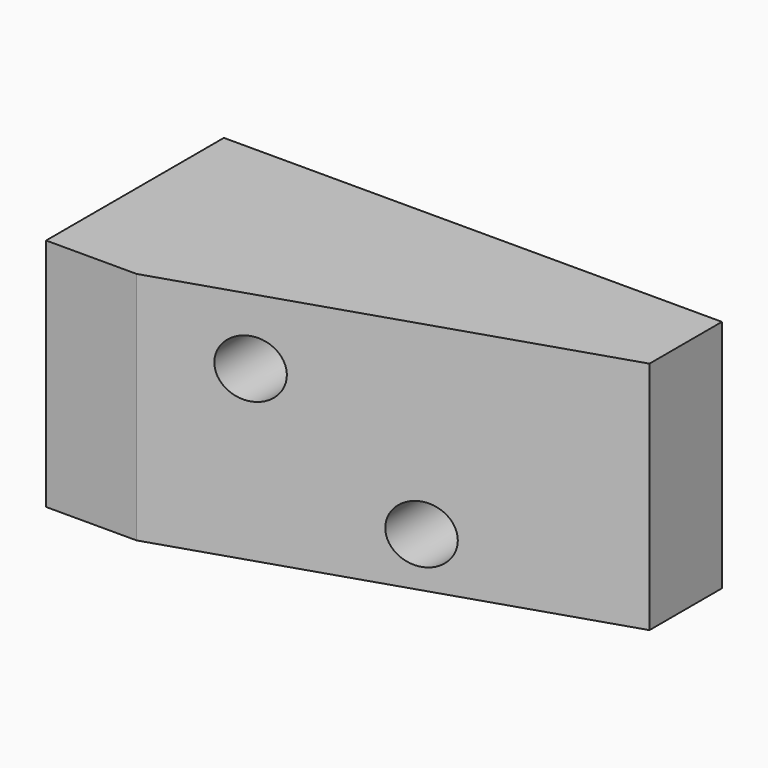
from build123d import *

# Parameters (mm, degrees)
F0_R     = 7
F1_DEPTH = 54
F3_DEPTH = 57.001


with BuildPart() as f1:
    # F0 (on Front) → F1 (new body)
    with BuildSketch(Plane.XZ):
        Polygon((9.345292, 57), (-52.654708, 57), (-52.654708, 46), (-30.654708, 28.847458), (6.345292, 0), (68.345292, 0), (68.345292, 11), align=None)
        with Locations((24.345292, 12)):
            Circle(F0_R, mode=Mode.SUBTRACT)
        with Locations((-8.654708, 41)):
            Circle(F0_R, mode=Mode.SUBTRACT)
        Polygon((-30.654708, 28.847458), (-52.654708, 46), (-52.654708, 0), (-30.654708, 0), align=None)
        Polygon((68.345292, 57), (9.345292, 57), (68.345292, 11), align=None)
        Polygon((6.345292, 0), (-30.654708, 28.847458), (-30.654708, 0), align=None)
    extrude(amount=F1_DEPTH)

    # F2 (on face) → F3 (cut, through all)
    with BuildSketch(Plane.XY.offset(57)):
        Polygon((68.345292, -22), (-30.654708, -54), (68.345292, -54), align=None)
    extrude(amount=-F3_DEPTH, mode=Mode.SUBTRACT)


solid = f1.part
